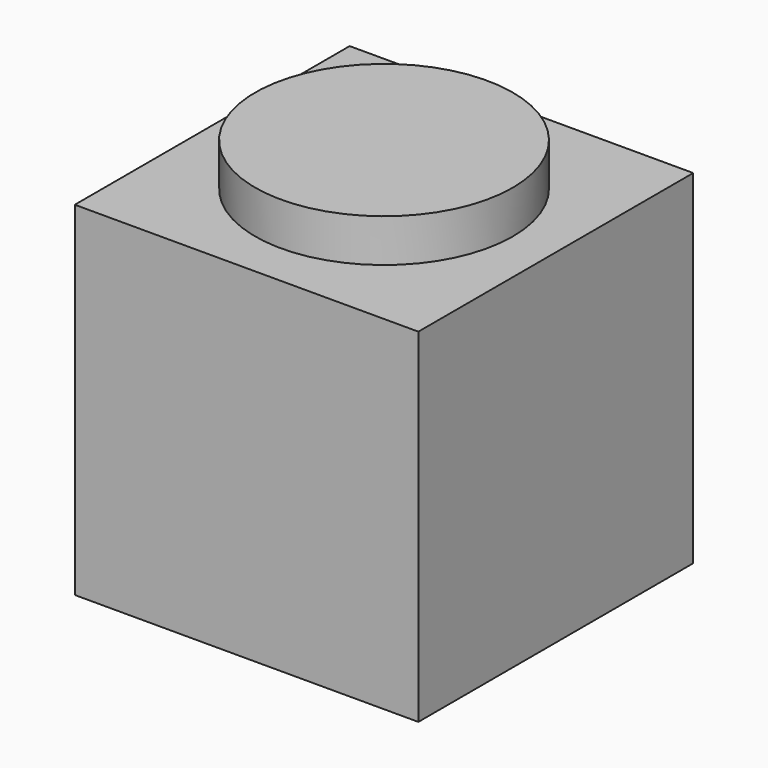
from build123d import *

# Parameters (mm, degrees)
F0_W     = 16
F0_H     = 16
F1_DEPTH = 8
F2_R     = 6
F3_DEPTH = 10


with BuildPart() as f1:
    # F0 (on Front) → F1 (new body, symmetric)
    with BuildSketch(Plane.XZ):
        Rectangle(F0_W, F0_H)
    extrude(amount=F1_DEPTH, both=True)

    # F2 (on Top) → F3 (join)
    with BuildSketch(Plane.XY):
        Circle(F2_R)
    extrude(amount=F3_DEPTH)


solid = f1.part
